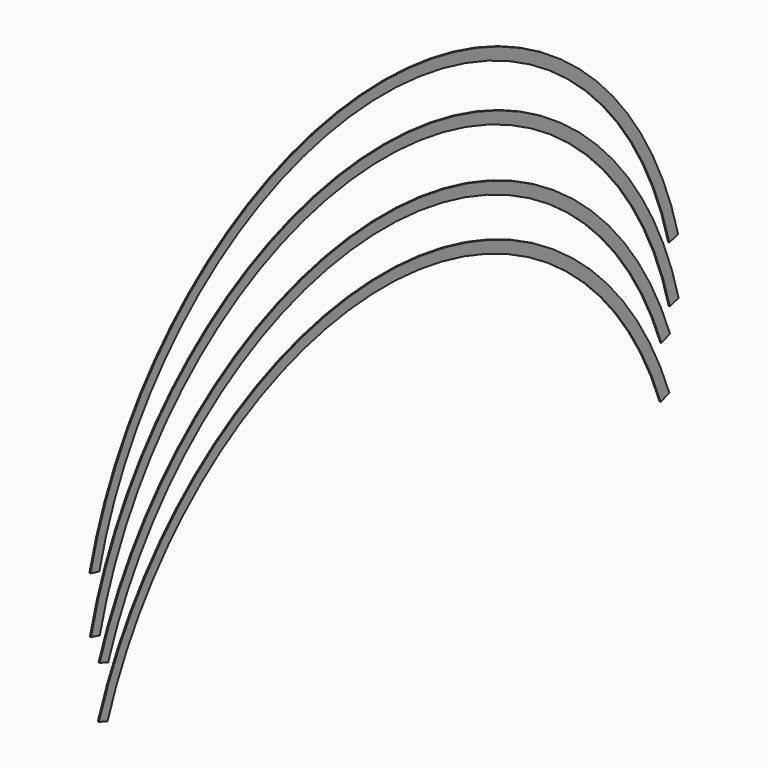
from build123d import *

# Parameters (mm, degrees)
F1_DEPTH = 3
F3_DEPTH = 3


with BuildPart() as f1:
    # F0 (on Right) → F1 (new body)
    with BuildSketch(Plane.YZ):
        with BuildLine():
            Line((-936.572938, 340.884672), (-908.38216, 330.624067))
            ThreePointArc((-908.38216, 330.624067), (0, 966.680103), (908.38216, 330.624067))
            Line((908.38216, 330.624067), (936.572938, 340.884672))
            ThreePointArc((936.572938, 340.884672), (0, 996.680103), (-936.572938, 340.884672))
        make_face()
        with BuildLine():
            ThreePointArc((934.246348, 205.305699), (-2.32659, 861.10113), (-938.899528, 205.305699))
            Line((-938.899528, 205.305699), (-910.708749, 195.045094))
            ThreePointArc((-910.708749, 195.045094), (-2.32659, 831.10113), (906.05557, 195.045094))
            Line((906.05557, 195.045094), (934.246348, 205.305699))
        make_face()
    extrude(amount=F1_DEPTH)


with BuildPart() as f3:
    # F2 (on Right) → F3 (new body)
    with BuildSketch(Plane.YZ):
        with BuildLine():
            Line((-964.933472, 411.872894), (-935.889042, 404.361494))
            ThreePointArc((-935.889042, 404.361494), (0, 1129.004215), (935.889042, 404.361494))
            Line((935.889042, 404.361494), (964.933472, 411.872894))
            ThreePointArc((964.933472, 411.872894), (0, 1159.004215), (-964.933472, 411.872894))
        make_face()
        with BuildLine():
            Line((-966.561655, 560.168488), (-937.517226, 552.657088))
            ThreePointArc((-937.517226, 552.657088), (-1.628183, 1277.299809), (934.260859, 552.657088))
            Line((934.260859, 552.657088), (963.305288, 560.168488))
            ThreePointArc((963.305288, 560.168488), (-1.628183, 1307.299809), (-966.561655, 560.168488))
        make_face()
    extrude(amount=F3_DEPTH)


solid = Compound([f1.part, f3.part])
